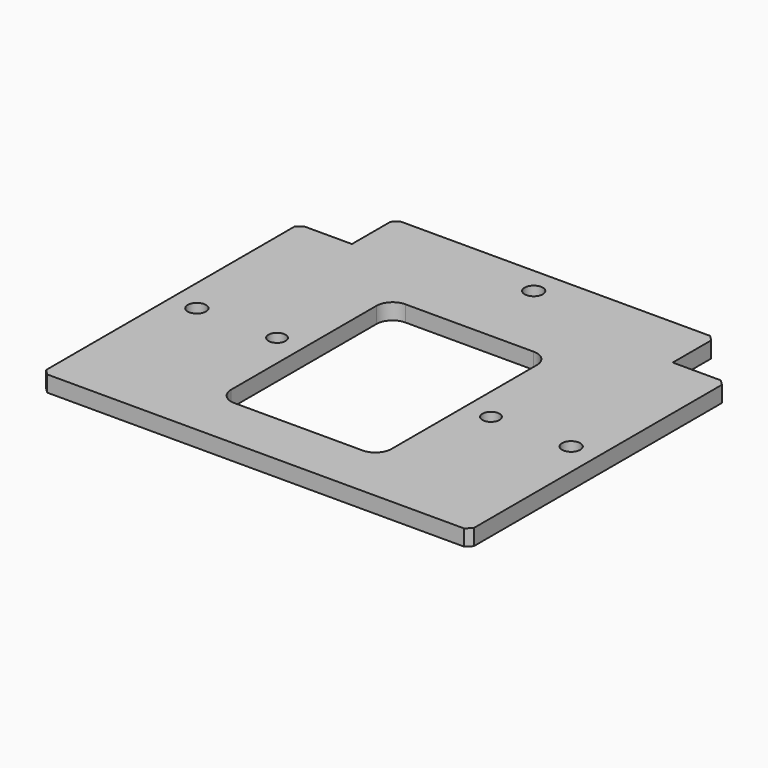
from build123d import *

# Parameters (mm, degrees)
SKETCH152_R     = 1.7
PAD084_DEPTH    = 3
CHAMFER055_SIZE = 1
SKETCH225_R     = 1.6
POCKET053_DEPTH = 3.001


with BuildPart() as part:
    # Sketch152 → Pad084 (new body)
    with BuildSketch(Plane.XY):
        Polygon((40, -30), (-40, -30), (-40, 30), (-30, 30), (-30, 40), (30, 40), (30, 30), (40, 30), align=None)
        with Locations((0, 35)):
            Circle(SKETCH152_R, mode=Mode.SUBTRACT)
        with Locations((-35, 0)):
            Circle(SKETCH152_R, mode=Mode.SUBTRACT)
        with Locations((35, 0)):
            Circle(SKETCH152_R, mode=Mode.SUBTRACT)
    extrude(amount=PAD084_DEPTH)

    # Chamfer055
    chamfer055_edges = [part.edges().sort_by_distance(p)[0] for p in [
        (40, 30, 1.5),
        (30, 40, 1.5),
        (-30, 40, 1.5),
        (-40, 30, 1.5),
        (-40, -30, 1.5),
        (40, -30, 1.5),
    ]]
    chamfer(chamfer055_edges, length=CHAMFER055_SIZE)


with BuildPart() as part_1:
    # Body072 placement: moved
    add(part.part.moved(Location((0, 34.999969, 320.000031))))

    # Sketch225 (on Face2 of Clone003) → Pocket053 (cut, through all)
    with BuildSketch(Plane(origin=(0, 34.999969, 320.000031), x_dir=(1, 0, 0), z_dir=(0, 0, -1))):
        with Locations((-20, 0)):
            Circle(SKETCH225_R)
        with Locations((20, 0)):
            Circle(SKETCH225_R)
        with BuildLine():
            ThreePointArc((-12, 20), (-14.12132, 19.12132), (-15, 17))
            Line((-15, -17), (-15, 17))
            ThreePointArc((-15, -17), (-14.12132, -19.12132), (-12, -20))
            Line((12, -20), (-12, -20))
            ThreePointArc((12, -20), (14.12132, -19.12132), (15, -17))
            Line((15, 17), (15, -17))
            ThreePointArc((15, 17), (14.12132, 19.12132), (12, 20))
            Line((-12, 20), (12, 20))
        make_face()
    extrude(amount=-POCKET053_DEPTH, mode=Mode.SUBTRACT)


solid = part_1.part
